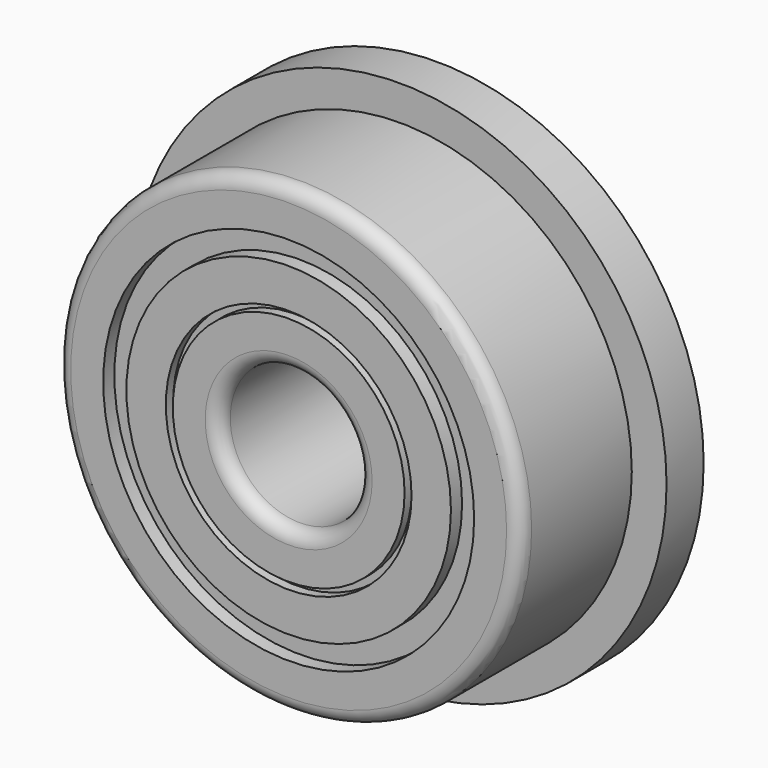
from build123d import *

# Parameters (mm, degrees)
F0_R     = 5.75
F0_R_2   = 5
F1_DEPTH = 1
F0_R_3   = 3.5
F0_R_4   = 2.5
F0_R_5   = 1.5
F2_DEPTH = 4
F3_R     = 0.3
F4_R     = 2.65
F4_R_2   = 2.5
F5_DEPTH = 0.2
F4_R_3   = 4
F4_R_4   = 3.5
F6_DEPTH = 0.3
F7_DEPTH = 0.2


with BuildPart() as f1:
    # F0 (on Front) → F1 (new body)
    with BuildSketch(Plane.XZ):
        Circle(F0_R)
        Circle(F0_R_2, mode=Mode.SUBTRACT)
    extrude(amount=F1_DEPTH)

    # F0 (on Front) → F2 (join)
    with BuildSketch(Plane.XZ):
        Circle(F0_R_2)
        Circle(F0_R_3, mode=Mode.SUBTRACT)
        Circle(F0_R_3)
        Circle(F0_R_4, mode=Mode.SUBTRACT)
        Circle(F0_R_4)
        Circle(F0_R_5, mode=Mode.SUBTRACT)
    extrude(amount=F2_DEPTH)

    # F3
    f3_edges = [f1.edges().sort_by_distance(p)[0] for p in [
        (-5, -4, 0),
        (-1.5, -4, 0),
        (-1.5, 0, 0),
    ]]
    fillet(f3_edges, radius=F3_R)

    # F4 (on face) → F5 (cut)
    with BuildSketch(Plane.XZ.offset(4)):
        Circle(F4_R)
        Circle(F4_R_2, mode=Mode.SUBTRACT)
    extrude(amount=-F5_DEPTH, mode=Mode.SUBTRACT)

    # F4 (on face) → F6 (cut)
    with BuildSketch(Plane.XZ.offset(4)):
        Circle(F4_R_3)
        Circle(F4_R_4, mode=Mode.SUBTRACT)
    extrude(amount=-F6_DEPTH, mode=Mode.SUBTRACT)

    # F0 (on Front) → F7 (cut)
    with BuildSketch(Plane.XZ):
        Circle(F0_R_3)
        Circle(F0_R_4, mode=Mode.SUBTRACT)
    extrude(amount=F7_DEPTH, mode=Mode.SUBTRACT)


solid = f1.part
